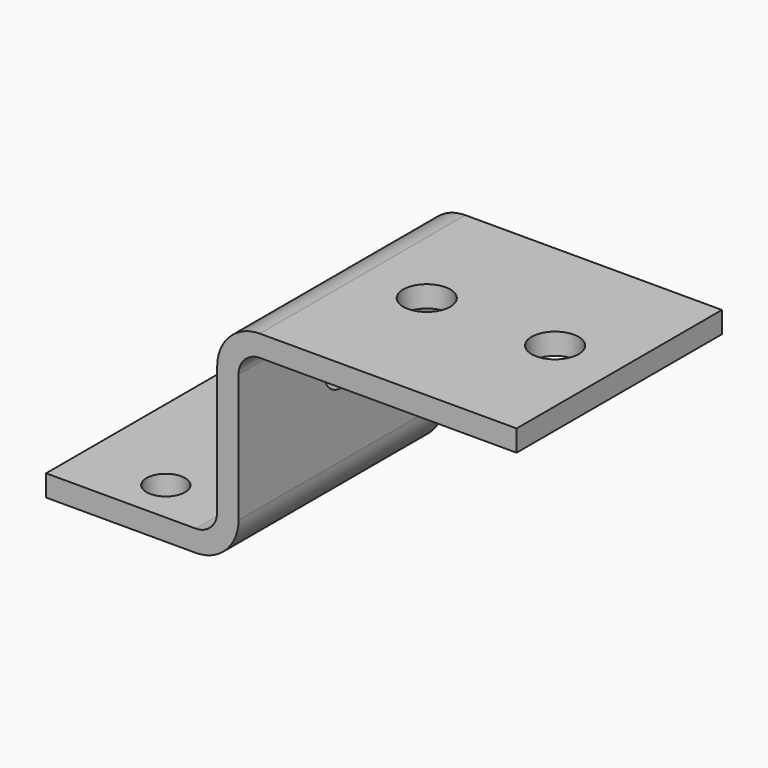
from build123d import *

# Parameters (mm, degrees)
F1_DEPTH = 60
F3_D     = 9
F3_DEPTH = 50
F5_D     = 10
F5_DEPTH = 50
F6_R     = 10
F8_D     = 11
F8_DEPTH = 50


with BuildPart() as f1:
    # F0 (on Front) → F1 (new body)
    with BuildSketch(Plane.XZ):
        with BuildLine():
            Line((-110, 33.812824), (-110, 28.812824))
            Line((-110, 28.812824), (-75, 28.812824))
            ThreePointArc((-75, 28.812824), (-67.928932, 31.741756), (-65, 38.812824))
            Line((-65, 38.812824), (-65, 68.812824))
            ThreePointArc((-65, 68.812824), (-63.535534, 72.348358), (-60, 73.812824))
            Line((-60, 73.812824), (0, 73.812824))
            Line((0, 73.812824), (0, 78.812824))
            Line((0, 78.812824), (-60, 78.812824))
            Line((-60, 78.812824), (-70, 78.812824))
            Line((-70, 78.812824), (-70, 68.812824))
            Line((-70, 68.812824), (-70, 38.812824))
            ThreePointArc((-70, 38.812824), (-71.464466, 35.27729), (-75, 33.812824))
            Line((-75, 33.812824), (-110, 33.812824))
        make_face()
    extrude(amount=F1_DEPTH)

    # F3
    with Locations(Plane.XY.offset(33.812824)):
        with Locations((-90, -10), (-90, -50)):
            Hole(F3_D / 2, depth=F3_DEPTH)

    # F5
    with Locations(Plane(origin=(-70, 0, 0), x_dir=(0, -1, 0), z_dir=(-1, 0, 0))):
        with Locations((30, 58.812824)):
            Hole(F5_D / 2, depth=F5_DEPTH)

    # F6
    f6_edges = [f1.edges().sort_by_distance(p)[0] for p in [
        (-70, -30, 78.812824),
    ]]
    fillet(f6_edges, radius=F6_R)

    # F8
    with Locations(Plane.XY.offset(78.812824)):
        with Locations((-15, -30), (-45, -30)):
            Hole(F8_D / 2, depth=F8_DEPTH)


solid = f1.part
